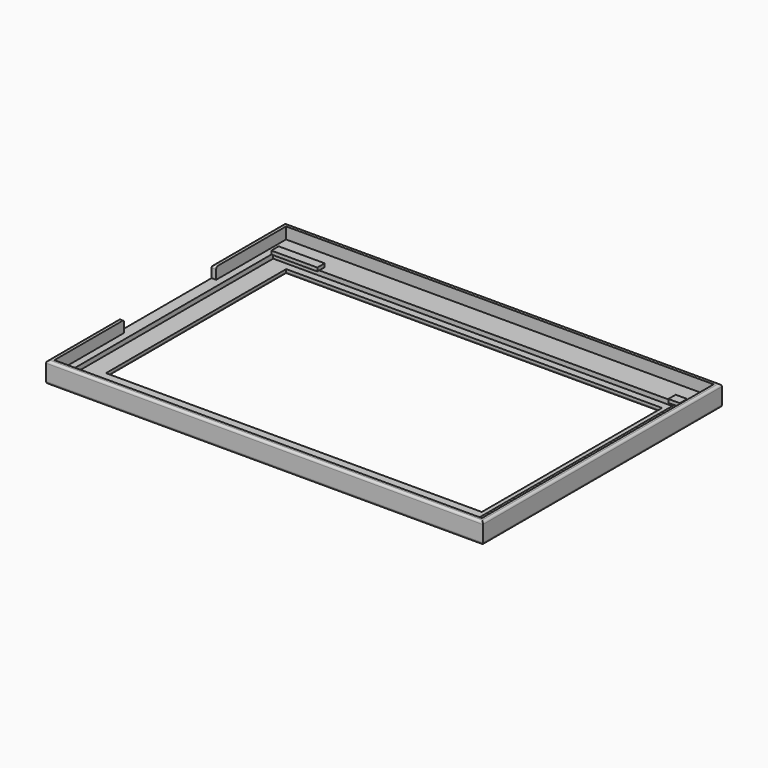
from build123d import *

# Parameters (mm, degrees)
SKETCH_W        = 190
SKETCH_H        = 130
SKETCH_W_2      = 163.5
SKETCH_H_2      = 98
PAD_DEPTH       = 4
SKETCH005_W     = 190
SKETCH005_H     = 130
SKETCH005_W_2   = 186
SKETCH005_H_2   = 126
PAD002_DEPTH    = 5
POCKET_DEPTH    = 2
SKETCH006_W     = 50
SKETCH006_H     = 5
POCKET001_DEPTH = 2
FILLET_R        = 1
SKETCH010_W     = 20
SKETCH010_H     = 4
SKETCH010_W_2   = 5
PAD005_DEPTH    = 1.5


with BuildPart() as part:
    # Sketch (on DatumPlane) → Pad (new body)
    with BuildSketch(Plane.XY.offset(-2)):
        Rectangle(SKETCH_W, SKETCH_H)
        Rectangle(SKETCH_W_2, SKETCH_H_2, mode=Mode.SUBTRACT)
    extrude(amount=PAD_DEPTH)

    # Sketch005 → Pad002 (join)
    with BuildSketch(Plane.XY.offset(2)):
        Rectangle(SKETCH005_W, SKETCH005_H)
        Rectangle(SKETCH005_W_2, SKETCH005_H_2, mode=Mode.SUBTRACT)
    extrude(amount=PAD002_DEPTH)

    # Sketch003 (on Face10 of Pad) → Pocket (cut)
    with BuildSketch(Plane.XY.offset(2)):
        Polygon((-90, 52.25), (-90, -59.75), (-20, -59.75), (-20, -62.25), (20, -62.25), (20, -59.75), (86, -59.75), (86, 52.25), align=None)
    extrude(amount=-POCKET_DEPTH, mode=Mode.SUBTRACT)

    # Sketch006 (on Face2 of Pocket) → Pocket001 (cut)
    with BuildSketch(Plane(origin=(-95, 0, 0), x_dir=(0, -1, 0), z_dir=(-1, 0, 0))):
        with Locations((0, 4.5)):
            Rectangle(SKETCH006_W, SKETCH006_H)
    extrude(amount=-POCKET001_DEPTH, mode=Mode.SUBTRACT)

    # Fillet
    fillet_edges = [part.edges().sort_by_distance(p)[0] for p in [
        (0, -65, -2),
        (95, 0, -2),
        (0, 65, -2),
        (0, -49, -2),
        (81.75, 0, -2),
        (-81.75, 0, -2),
        (0, 49, -2),
        (-95, 0, -2),
        (-95, -45, 7),
        (0, -65, 7),
        (95, 0, 7),
        (0, 65, 7),
        (-95, 45, 7),
        (-94, 25, 7),
        (-94, -25, 7),
    ]]
    fillet(fillet_edges, radius=FILLET_R)

    # Sketch010 (on Face23 of Fillet) → Pad005 (join)
    with BuildSketch(Plane.XY.offset(2)):
        with Locations((-80, 53.25)):
            Rectangle(SKETCH010_W, SKETCH010_H)
        with Locations((-80, -60.75)):
            Rectangle(SKETCH010_W, SKETCH010_H)
        with Locations((86, 52.25)):
            Rectangle(SKETCH010_W_2, SKETCH010_H)
        with Locations((86, -59.75)):
            Rectangle(SKETCH010_W_2, SKETCH010_H)
    extrude(amount=PAD005_DEPTH)


solid = part.part
